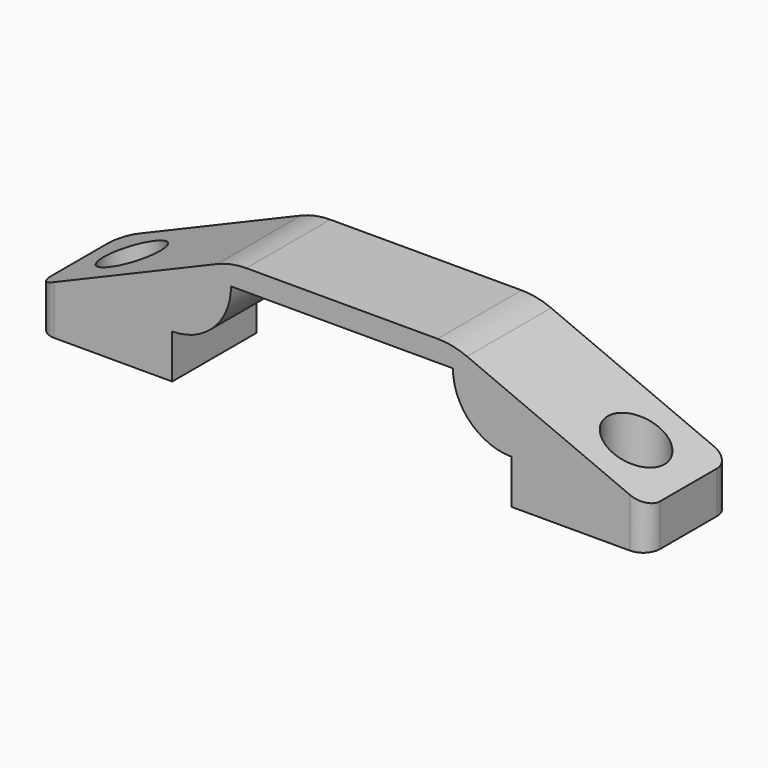
from build123d import *

# Parameters (mm, degrees)
PAD_DEPTH       = 25
SKETCH001_R     = 4.3
POCKET_DEPTH    = 29.501
SKETCH002_R     = 6.75
POCKET001_DEPTH = 24.501
FILLET_R        = 4
FILLET001_R     = 18


with BuildPart() as part:
    # Sketch → Pad (new body)
    with BuildSketch(Plane.XZ):
        with BuildLine():
            ThreePointArc((-40.4, 30.9), (-30.500505, 35.000505), (-26.4, 44.9))
            Line((-26.4, 44.9), (26.4, 44.9))
            ThreePointArc((26.4, 44.9), (30.500505, 35.000505), (40.4, 30.9))
            Line((40.4, 20.4), (40.4, 30.9))
            Line((72.5, 20.4), (40.4, 20.4))
            Line((72.5, 30.4), (72.5, 20.4))
            Line((26.4, 49.9), (72.5, 30.4))
            Line((-26.4, 49.9), (26.4, 49.9))
            Line((-72.5, 30.4), (-26.4, 49.9))
            Line((-72.5, 20.4), (-72.5, 30.4))
            Line((-40.4, 20.4), (-72.5, 20.4))
            Line((-40.4, 30.9), (-40.4, 20.4))
        make_face()
    extrude(amount=PAD_DEPTH)

    # Sketch001 (on Face11 of Pad) → Pocket (cut, through all)
    with BuildSketch(Plane(origin=(0, 0, 20.4), x_dir=(1, 0, 0), z_dir=(0, 0, -1))):
        with Locations((-60, 12.5)):
            Circle(SKETCH001_R)
        with Locations((60, 12.5)):
            Circle(SKETCH001_R)
    extrude(amount=-POCKET_DEPTH, mode=Mode.SUBTRACT)

    # Sketch002 (on Face6 of Pocket) → Pocket001 (cut, through all)
    with BuildSketch(Plane(origin=(0, 0, 25.4), x_dir=(1, 0, 0), z_dir=(0, 0, -1))):
        with Locations((-60, 12.5)):
            Circle(SKETCH002_R)
        with Locations((60, 12.5)):
            Circle(SKETCH002_R)
    extrude(amount=-POCKET001_DEPTH, mode=Mode.SUBTRACT)

    # Fillet
    fillet_edges = [part.edges().sort_by_distance(p)[0] for p in [
        (-72.5, -25, 25.4),
        (-72.5, 0, 25.4),
        (72.5, -25, 25.4),
        (72.5, 0, 25.4),
    ]]
    fillet(fillet_edges, radius=FILLET_R)

    # Fillet001
    fillet001_edges = [part.edges().sort_by_distance(p)[0] for p in [
        (-26.4, -12.5, 49.9),
        (26.4, -12.5, 49.9),
    ]]
    fillet(fillet001_edges, radius=FILLET001_R)


solid = part.part
